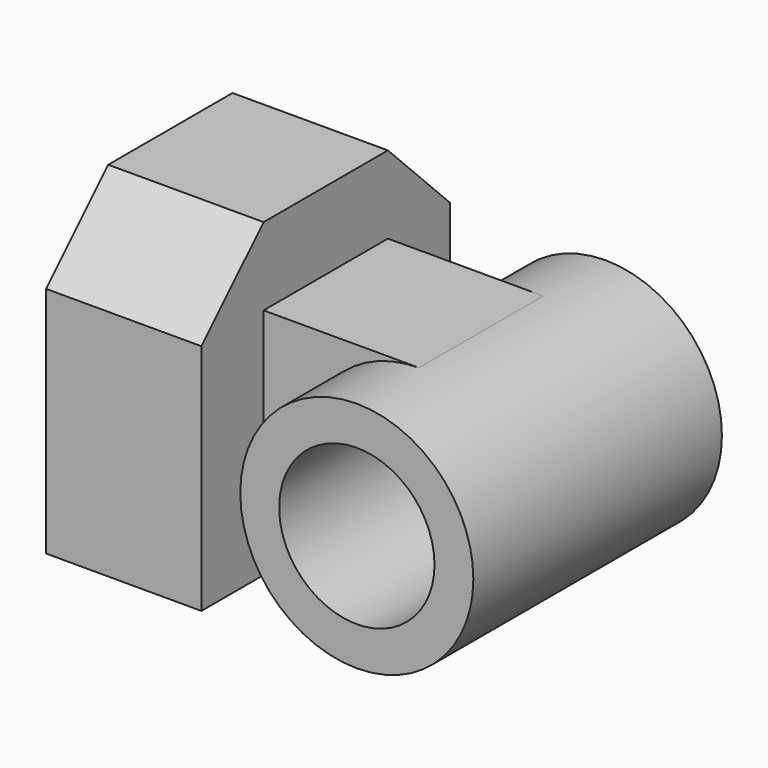
from build123d import *

# Parameters (mm, degrees)
F1_DEPTH = 12.7
F2_W     = 12.7
F2_H     = 12.7
F3_DEPTH = 12.7
F4_R     = 9.525
F5_DEPTH = 12.7
F6_R     = 6.35
F7_DEPTH = 50.8


with BuildPart() as f1:
    # F0 (on Right) → F1 (new body)
    with BuildSketch(Plane.YZ):
        Polygon((-12.7, 0), (0, 0), (12.7, 0), (12.7, 19.05), (6.35, 25.4), (-6.35, 25.4), (-12.7, 19.05), align=None)
    extrude(amount=F1_DEPTH)

    # F2 (on face) → F3 (join)
    with BuildSketch(Plane.YZ.offset(12.7)):
        with Locations((0, 12.7)):
            Rectangle(F2_W, F2_H)
    extrude(amount=F3_DEPTH)

    # F4 (on Front) → F5 (join, symmetric)
    with BuildSketch(Plane.XZ):
        with Locations((25.4, 9.525)):
            Circle(F4_R)
    extrude(amount=F5_DEPTH, both=True)

    # F6 (on face) → F7 (cut)
    with BuildSketch(Plane.XZ.offset(12.7)):
        with Locations((25.4, 9.525)):
            Circle(F6_R)
    extrude(amount=-F7_DEPTH, mode=Mode.SUBTRACT)


solid = f1.part
